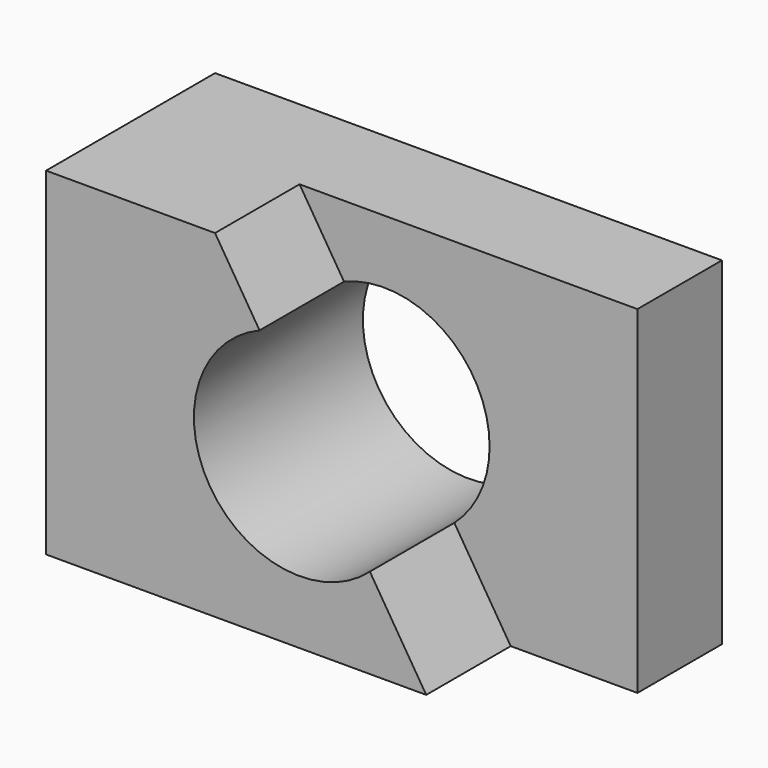
from build123d import *

# Parameters (mm, degrees)
F0_W     = 120
F0_H     = 80
F0_R     = 25
F1_DEPTH = 50
F3_DEPTH = 25


with BuildPart() as f1:
    # F0 (on Front) → F1 (new body)
    with BuildSketch(Plane.XZ):
        Rectangle(F0_W, F0_H)
        Circle(F0_R, mode=Mode.SUBTRACT)
    extrude(amount=F1_DEPTH)

    # F2 (on face) → F3 (cut)
    with BuildSketch(Plane.XZ.offset(50)):
        Polygon((60, -40), (60, 40), (-20, 40), (30, -40), align=None)
    extrude(amount=-F3_DEPTH, mode=Mode.SUBTRACT)


solid = f1.part
